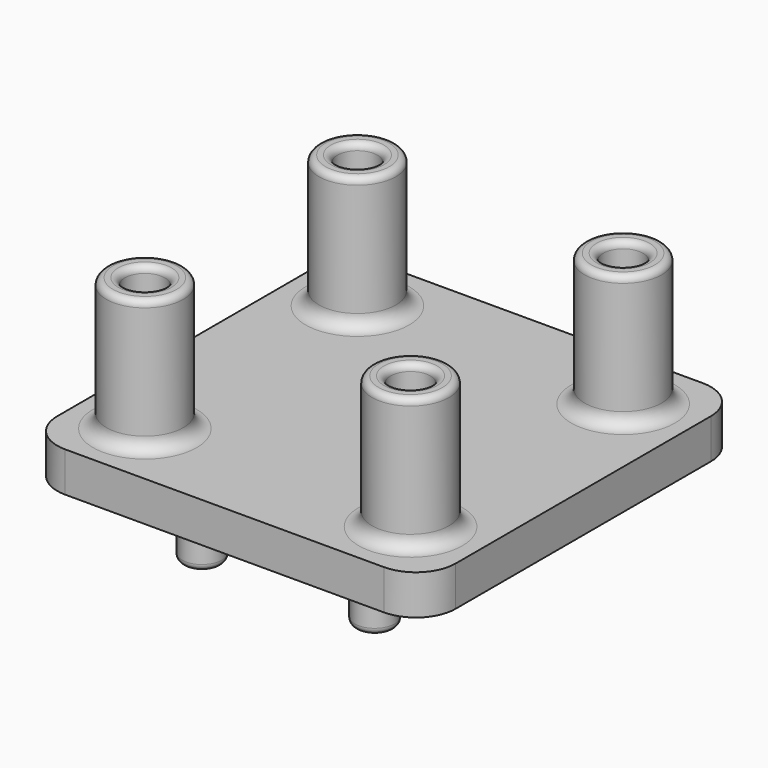
from build123d import *

# Parameters (mm, degrees)
SKETCH_W     = 30
SKETCH_H     = 30
PAD_DEPTH    = 3
SKETCH004_R  = 2.9
PAD001_DEPTH = 10
SKETCH005_R  = 1.5
PAD002_DEPTH = 5
SKETCH006_R  = 1.5
POCKET_DEPTH = 8
FILLET_R     = 0.5
FILLET001_R  = 1
FILLET002_R  = 3
FILLET003_R  = 1
FILLET004_R  = 0.5


with BuildPart() as part:
    # Sketch → Pad (new body)
    with BuildSketch(Plane.XY):
        with Locations((20, 20)):
            Rectangle(SKETCH_W, SKETCH_H)
    extrude(amount=PAD_DEPTH)

    # Sketch004 (on Face6 of Pad) → Pad001 (join)
    with BuildSketch(Plane.XY.offset(3)):
        with Locations((10, 10)):
            Circle(SKETCH004_R)
        with Locations((10, 30)):
            Circle(SKETCH004_R)
        with Locations((30, 10)):
            Circle(SKETCH004_R)
        with Locations((30, 30)):
            Circle(SKETCH004_R)
    extrude(amount=PAD001_DEPTH)

    # Sketch005 (on Face4 of Pad001) → Pad002 (join)
    with BuildSketch(Plane(origin=(0, 0, 0), x_dir=(1, 0, 0), z_dir=(0, 0, -1))):
        with Locations((13.5, -11)):
            Circle(SKETCH005_R)
        with Locations((26.5, -11)):
            Circle(SKETCH005_R)
        with Locations((13.5, -29)):
            Circle(SKETCH005_R)
        with Locations((26.5, -29)):
            Circle(SKETCH005_R)
    extrude(amount=PAD002_DEPTH)

    # Sketch006 (on Face20 of Pad002) → Pocket (cut)
    with BuildSketch(Plane.XY.offset(13)):
        with Locations((10, 30)):
            Circle(SKETCH006_R)
        with Locations((30, 30)):
            Circle(SKETCH006_R)
        with Locations((10, 10)):
            Circle(SKETCH006_R)
        with Locations((30, 10)):
            Circle(SKETCH006_R)
    extrude(amount=-POCKET_DEPTH, mode=Mode.SUBTRACT)

    # Fillet
    fillet_edges = [part.edges().sort_by_distance(p)[0] for p in [
        (7.1, 30, 13),
        (8.5, 30, 13),
        (27.1, 30, 13),
        (28.5, 30, 13),
        (7.1, 10, 13),
        (8.5, 10, 13),
        (27.1, 10, 13),
        (28.5, 10, 13),
    ]]
    fillet(fillet_edges, radius=FILLET_R)

    # Fillet001
    fillet001_edges = [part.edges().sort_by_distance(p)[0] for p in [
        (7.1, 30, 3),
        (27.1, 30, 3),
        (7.1, 10, 3),
        (27.1, 10, 3),
    ]]
    fillet(fillet001_edges, radius=FILLET001_R)

    # Fillet002
    fillet002_edges = [part.edges().sort_by_distance(p)[0] for p in [
        (5, 35, 1.5),
        (35, 35, 1.5),
        (35, 5, 1.5),
        (5, 5, 1.5),
    ]]
    fillet(fillet002_edges, radius=FILLET002_R)

    # Fillet003
    fillet003_edges = [part.edges().sort_by_distance(p)[0] for p in [
        (12, 29, 0),
        (25, 29, 0),
        (12, 11, 0),
        (25, 11, 0),
    ]]
    fillet(fillet003_edges, radius=FILLET003_R)

    # Fillet004
    fillet004_edges = [part.edges().sort_by_distance(p)[0] for p in [
        (12, 29, -5),
        (25, 29, -5),
        (12, 11, -5),
        (25, 11, -5),
    ]]
    fillet(fillet004_edges, radius=FILLET004_R)


solid = part.part
